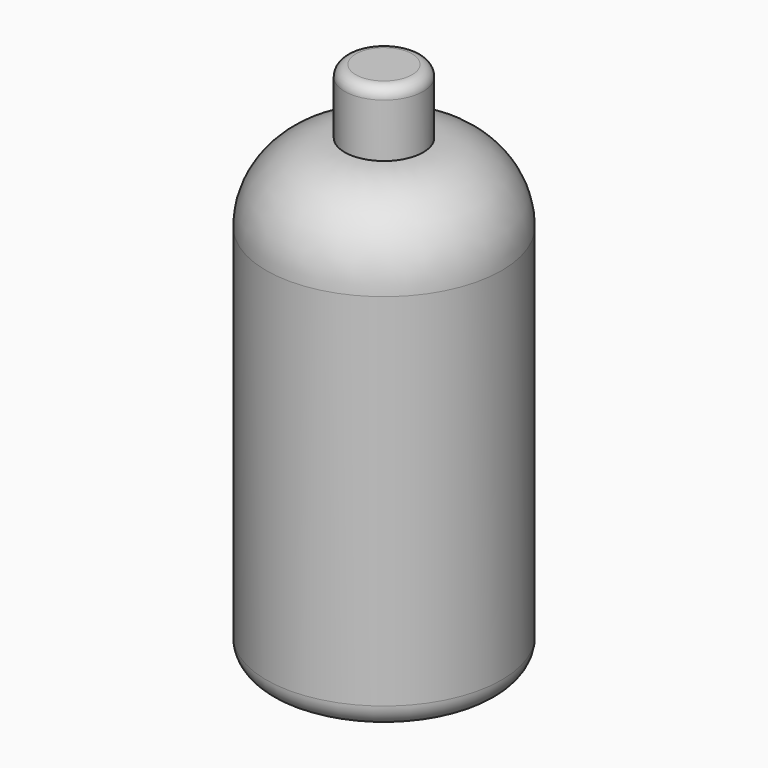
from build123d import *

# Parameters (mm, degrees)
F2_R     = 8.5
F3_DEPTH = 14
F4_R     = 2.4
F5_R     = 5


with BuildPart() as f1:
    # F0 (on Front) → F1 (revolve)
    with BuildSketch(Plane.XZ):
        with BuildLine():
            Line((0, 100), (0, 0))
            Line((0, 0), (25.5, 0))
            Line((25.5, 0), (25.5, 83))
            ThreePointArc((25.5, 83), (20.520815, 95.020815), (8.5, 100))
            Line((8.5, 100), (0, 100))
        make_face()
    revolve(axis=Axis((0, 0, 50), (0, 0, -1)))

    # F2 (on face) → F3 (join)
    with BuildSketch(Plane.XY.offset(100)):
        Circle(F2_R)
    extrude(amount=F3_DEPTH)

    # F4
    f4_edges = [f1.edges().sort_by_distance(p)[0] for p in [
        (-8.5, 0, 114),
    ]]
    fillet(f4_edges, radius=F4_R)

    # F5
    f5_edges = [f1.edges().sort_by_distance(p)[0] for p in [
        (-25.5, 0, 0),
    ]]
    fillet(f5_edges, radius=F5_R)


solid = f1.part
